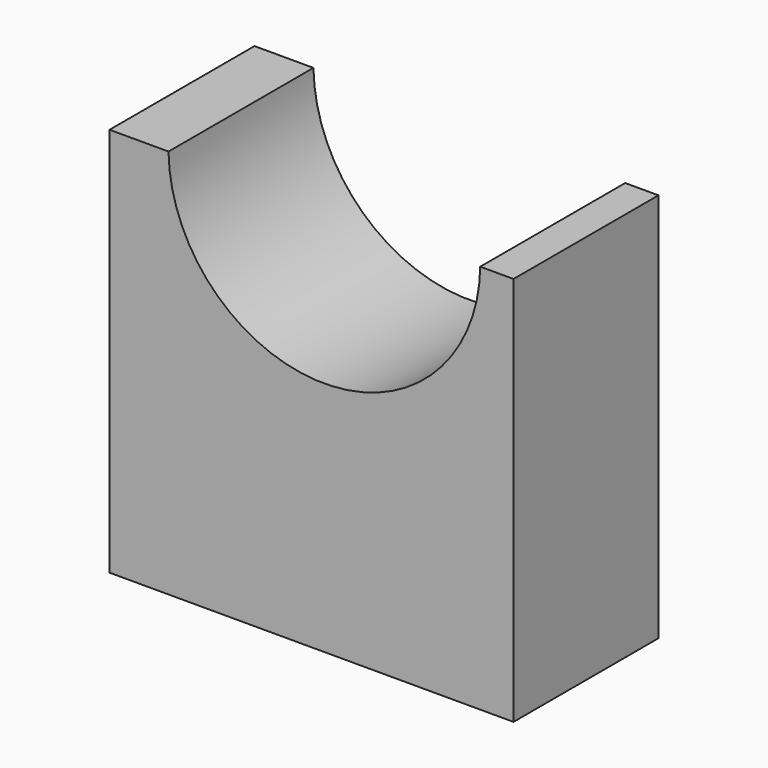
from build123d import *

# Parameters (mm, degrees)
F0_W     = 77.63347
F0_H     = 66.146884
F1_DEPTH = 30.734
F2_R     = 26.443213
F3_DEPTH = 31.496
F5_DEPTH = 78.486
F6_DEPTH = 70.358


with BuildPart() as f1:
    # F0 (on Front) → F1 (new body)
    with BuildSketch(Plane.XZ):
        with Locations((2.376534, 0.792177)):
            Rectangle(F0_W, F0_H)
    extrude(amount=-F1_DEPTH)

    # F2 (on Front) → F3 (cut)
    with BuildSketch(Plane.XZ):
        with Locations((0, 34.261707)):
            Circle(F2_R)
    extrude(amount=-F3_DEPTH, mode=Mode.SUBTRACT)

    # F4 (on Top) → F5 (cut)
    with BuildSketch(Plane.XY):
        Polygon((32.083217, 39.410867), (32.083217, 31.092994), (32.083217, 0), (41.589357, 0), (41.589357, 39.410867), align=None)
    extrude(amount=F5_DEPTH, mode=Mode.SUBTRACT)

    # F4 (on Top) → F6 (cut)
    with BuildSketch(Plane.XY):
        Polygon((32.083217, 39.410867), (32.083217, 31.092994), (32.083217, 0), (41.589357, 0), (41.589357, 39.410867), align=None)
    extrude(amount=-F6_DEPTH, mode=Mode.SUBTRACT)


solid = f1.part
